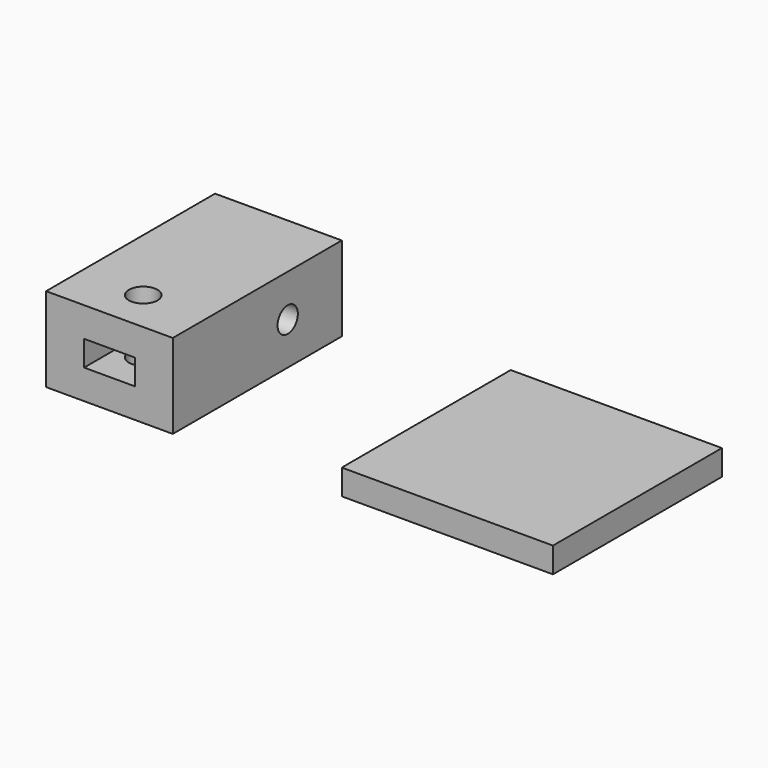
from build123d import *

# Parameters (mm, degrees)
F0_W     = 15
F0_H     = 25
F0_R     = 1.7
F1_DEPTH = 10
F2_W     = 6
F2_H     = 3
F3_DEPTH = 8.3
F4_R     = 1.5
F5_DEPTH = 15
F6_W     = 3
F6_H     = 6
F7_DEPTH = 8.3
F0_W_2   = 25
F8_DEPTH = 3


with BuildPart() as f1:
    # F0 (on Top) → F1 (new body)
    with BuildSketch(Plane.XY):
        Rectangle(F0_W, F0_H)
        with Locations((0, -7.5)):
            Circle(F0_R, mode=Mode.SUBTRACT)
    extrude(amount=F1_DEPTH)

    # F2 (on face) → F3 (cut)
    with BuildSketch(Plane.XZ.offset(12.5)):
        with Locations((0, 5)):
            Rectangle(F2_W, F2_H)
    extrude(amount=-F3_DEPTH, mode=Mode.SUBTRACT)

    # F4 (on face) → F5 (cut, through all)
    with BuildSketch(Plane(origin=(-7.5, 0, 0), x_dir=(0, -1, 0), z_dir=(-1, 0, 0))):
        with Locations((-4.5, 5)):
            Circle(F4_R)
    extrude(amount=-F5_DEPTH, mode=Mode.SUBTRACT)

    # F6 (on face) → F7 (cut)
    with BuildSketch(Plane(origin=(0, 0, 0), x_dir=(1, 0, 0), z_dir=(0, 0, -1))):
        with Locations((0, -4.5)):
            Rectangle(F6_W, F6_H)
    extrude(amount=-F7_DEPTH, mode=Mode.SUBTRACT)


with BuildPart() as f8:
    # F0 (on Top) → F8 (new body)
    with BuildSketch(Plane.XY):
        with Locations((40, 0)):
            Rectangle(F0_W_2, F0_H)
    extrude(amount=F8_DEPTH)


solid = Compound([f1.part, f8.part])
